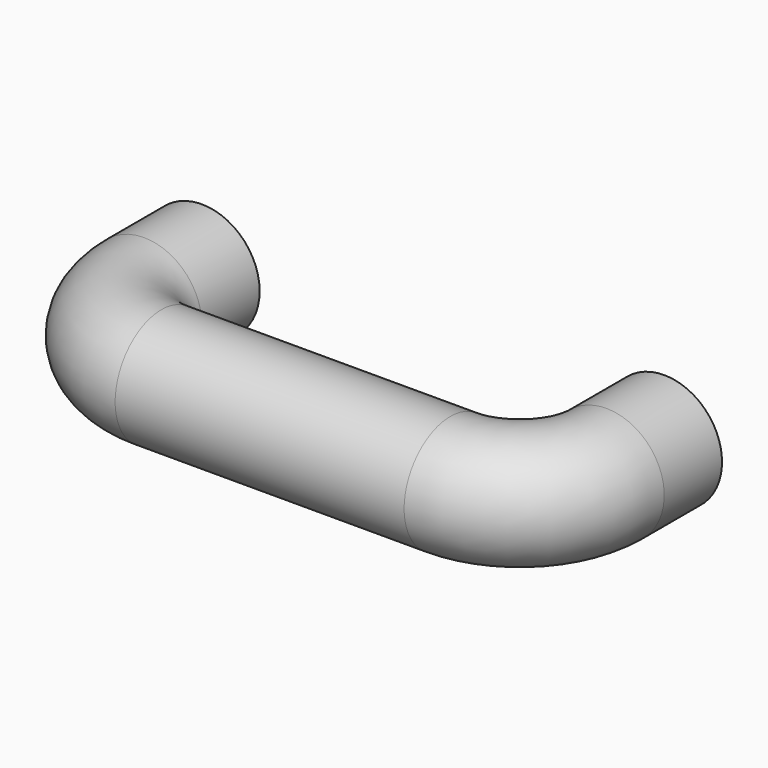
from build123d import *

# Parameters (mm, degrees)
F0_R     = 20
F4_D     = 8.8
F4_DEPTH = 12
F4_TIP   = 2.6437867237


with BuildPart() as f2:
    # F2: sweep along a path in F1
    with BuildLine(Plane.XY) as f2_path:
        Line((0, 0), (0, -25))
        ThreePointArc((0, -25), (8.7867965644, -46.2132034356), (30, -55))
        Line((30, -55), (130, -55))
        ThreePointArc((130, -55), (151.2132034356, -46.2132034356), (160, -25))
        Line((160, -25), (160, 0))
    # F0 (on Front) → F2 (sweep)
    with BuildSketch(Plane.XZ):
        Circle(F0_R)
    sweep(path=f2_path.line)

    # F4
    with Locations(Plane(origin=(0, 0, 0), x_dir=(-1, 0, 0), z_dir=(0, 1, 0))):
        with Locations((0, 0), (-160, 0)):
            Hole(F4_D / 2, depth=F4_DEPTH)
            with Locations((0, 0, -(F4_DEPTH + F4_TIP / 2))):  # 118° drill point
                Cone(0, F4_D / 2, F4_TIP, mode=Mode.SUBTRACT)


solid = f2.part
